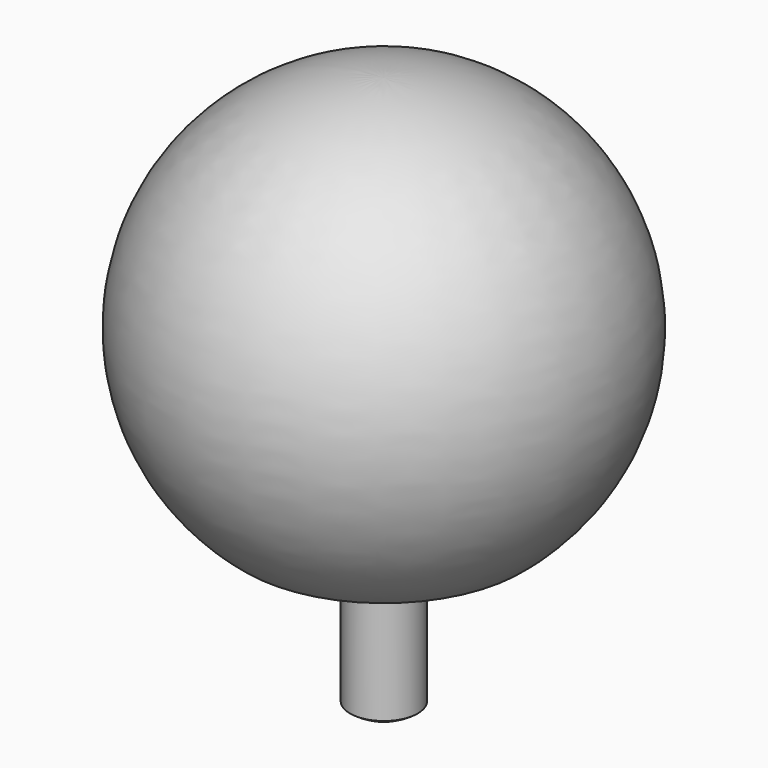
from build123d import *

# Parameters (mm, degrees)
F1_FACE_R = 3
F2_DEPTH  = 14
F5_R      = 0.9
F6_DEPTH  = 3
F7_R      = 0.9
F8_DEPTH  = 3


with BuildPart() as f1:
    # F0 (on Front) → F1 (revolve)
    with BuildSketch(Plane.XZ):
        with BuildLine():
            Line((0, 0), (0, 34.712166))
            ThreePointArc((0, 34.712166), (-18.396837, 21.677951), (-12.2, 0))
            Line((-12.2, 0), (-11, 0))
            Line((-11, 0), (-11, 21))
            Line((-11, 21), (-3, 21))
            Line((-3, 21), (-3, 0))
            Line((-3, 0), (0, 0))
        make_face()
    revolve(axis=Axis((0, 0, 17.356083), (0, 0, -1)))

    # F5 (on face) → F6 (cut)
    with BuildSketch(Plane(origin=(0, 0, 0), x_dir=(1, 0, 0), z_dir=(0, 0, -1))):
        Circle(F5_R)
    extrude(amount=-F6_DEPTH, mode=Mode.SUBTRACT)


with BuildPart() as f2:
    # F1_face (on face) → F2 (new body)
    with BuildSketch(Plane(origin=(0, 0, 0), x_dir=(1, 0, 0), z_dir=(0, 0, -1))):
        Circle(F1_FACE_R)
    extrude(amount=F2_DEPTH)

    # F3 (on Front) → F4 (revolve)
    with BuildSketch(Plane.XZ):
        with BuildLine():
            Line((0, -14), (0, -15))
            ThreePointArc((0, -15), (1.581139, -14.743416), (3, -14))
            Line((3, -14), (0, -14))
        make_face()
    revolve(axis=Axis((0, 0, -14.5), (0, 0, -1)))

    # F7 (on face) → F8 (cut)
    with BuildSketch(Plane.XY):
        Circle(F7_R)
    extrude(amount=-F8_DEPTH, mode=Mode.SUBTRACT)


solid = Compound([f1.part, f2.part])
